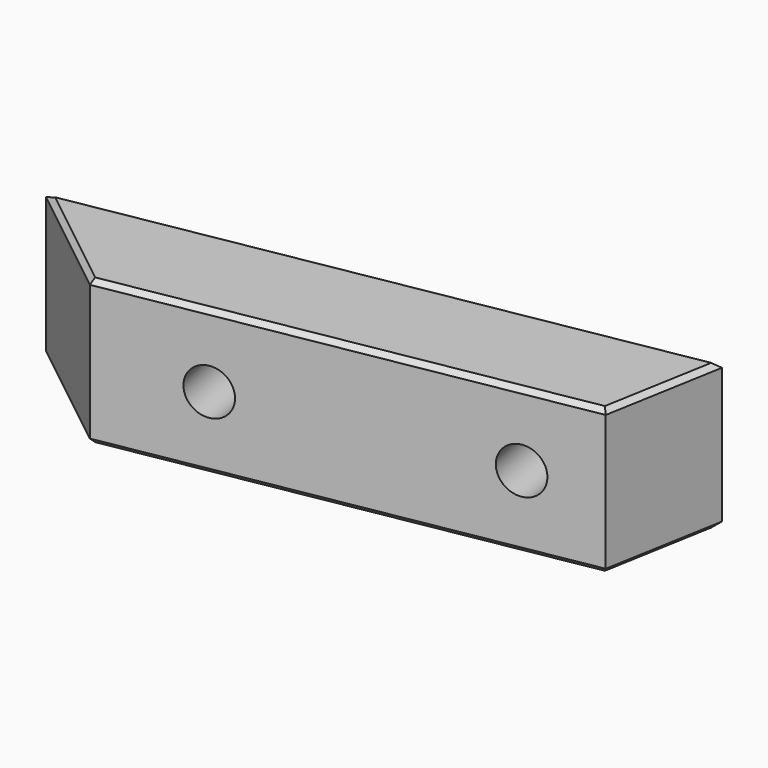
from build123d import *

# Parameters (mm, degrees)
PAD003_DEPTH    = 12
CHAMFER003_SIZE = 0.4
SKETCH009_R     = 1.9
POCKET004_DEPTH = 16.1959969605
CHAMFER005_SIZE = 0.4


with BuildPart() as part:
    # Sketch007 → Pad003 (new body)
    with BuildSketch(Plane.XY):
        Polygon((0.6668100851, 49.1519224699), (2.4032918618, 59), (-46.602698377, 50.3589217046), (-36.745237331, 42.5551691069), align=None)
    extrude(amount=PAD003_DEPTH)

    # Chamfer003
    chamfer003_edges = [part.edges().sort_by_distance(p)[0] for p in [
        (1.535051, 54.075961, 12),
        (-22.099703, 54.679461, 12),
        (-41.673968, 46.457045, 12),
        (-18.039214, 45.853546, 12),
        (1.535051, 54.075961, 0),
        (-22.099703, 54.679461, 0),
        (-41.673968, 46.457045, 0),
        (-18.039214, 45.853546, 0),
    ]]
    chamfer(chamfer003_edges, length=CHAMFER003_SIZE)

    # Sketch009 (on Face5 of Chamfer003) → Pocket004 (cut, through all)
    with BuildSketch(Plane(origin=(-10.0171261113, 56.8099451997, 0), x_dir=(-0.984807753, -0.1736481777, 0), z_dir=(-0.1736481777, 0.984807753, 0))):
        with Locations((-3, 6)):
            Circle(SKETCH009_R)
        with Locations((20, 6)):
            Circle(SKETCH009_R)
    extrude(amount=-POCKET004_DEPTH, mode=Mode.SUBTRACT)

    # Chamfer005
    chamfer005_edges = [part.edges().sort_by_distance(p)[0] for p in [
        (-27.842146, 53.666913, 6),
        (-5.191568, 57.660821, 6),
    ]]
    chamfer(chamfer005_edges, length=CHAMFER005_SIZE)


solid = part.part
